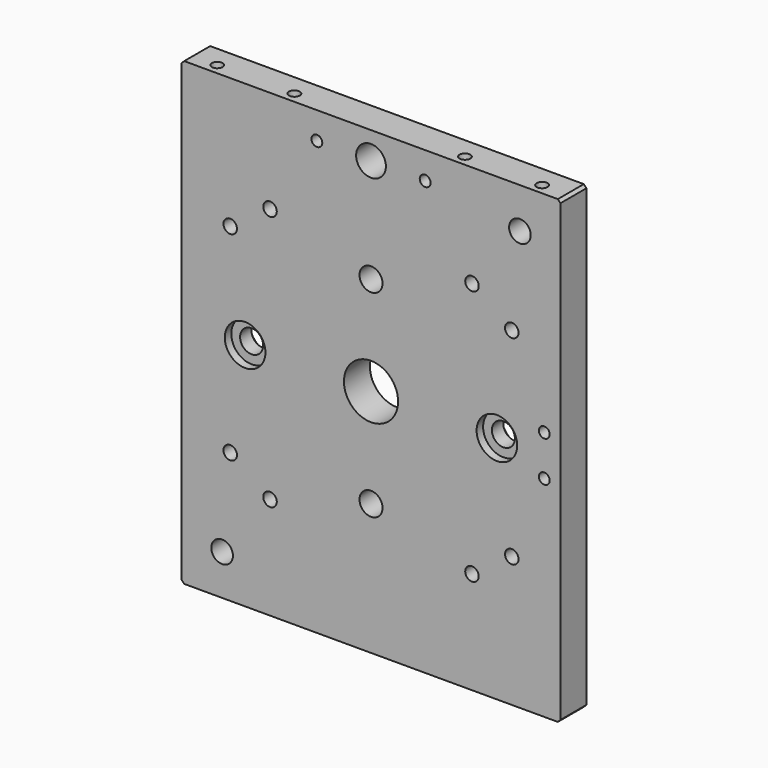
from build123d import *

# Parameters (mm, degrees)
F0_W           = 140
F0_H           = 170
F1_DEPTH       = 12
F2_R           = 10
F3_DEPTH       = 12
F5_D           = 8
F6_R           = 7.5
F7_DEPTH       = 3
F9_D           = 8.5
F9_DEPTH       = 12
F9_CSINK_D     = 16
F9_CSINK_ANGLE = 90
F9_TIP         = 2.5536576309
F11_D          = 8.5
F13_D          = 5
F15_D          = 4
F16_R          = 5.5
F17_DEPTH      = 12
F19_D          = 4
F19_DEPTH      = 13
F19_TIP        = 1.2017212381
F20_SIZE       = 1


with BuildPart() as f1:
    # F0 (on Front) → F1 (new body)
    with BuildSketch(Plane.XZ):
        Rectangle(F0_W, F0_H)
    extrude(amount=F1_DEPTH)

    # F2 (on face) → F3 (cut)
    with BuildSketch(Plane.XZ.offset(12)):
        Circle(F2_R)
    extrude(amount=-F3_DEPTH, mode=Mode.SUBTRACT)

    # F5 (through all)
    with Locations(Plane.XZ.offset(12)):
        with Locations((-55, -70), (55, 70)):
            Hole(F5_D / 2)

    # F6 (on face) → F7 (cut)
    with BuildSketch(Plane.XZ.offset(12)):
        with Locations((-46.5, 0)):
            Circle(F6_R)
        with Locations((46.5, 0)):
            Circle(F6_R)
    extrude(amount=-F7_DEPTH, mode=Mode.SUBTRACT)

    # F9
    with Locations(Plane(origin=(0, 0, 0), x_dir=(-1, 0, 0), z_dir=(0, 1, 0))):
        with Locations((46.5, 0), (-46.5, 0)):
            CounterSinkHole(F9_D / 2, F9_CSINK_D / 2, depth=F9_DEPTH, counter_sink_angle=F9_CSINK_ANGLE)
            with Locations((0, 0, -(F9_DEPTH + F9_TIP / 2))):  # 118° drill point
                Cone(0, F9_D / 2, F9_TIP, mode=Mode.SUBTRACT)

    # F11 (through all)
    with Locations(Plane.XZ.offset(12)):
        with Locations((0, -36.5), (0, 36.5)):
            Hole(F11_D / 2)

    # F13 (through all)
    with Locations(Plane.XZ.offset(12)):
        with Locations((52, -36.8), (37.3, -47.2), (-37.3, -47.2), (-52, -36.8), (-52, 36.8), (-37.3, 47.2), (37.3, 47.2), (52, 36.8)):
            Hole(F13_D / 2)

    # F15 (through all)
    with Locations(Plane.XZ.offset(12)):
        with Locations((-20, 75), (20, 75), (64, 7.5), (64, -7.5)):
            Hole(F15_D / 2)

    # F16 (on face) → F17 (cut)
    with BuildSketch(Plane.XZ.offset(12)):
        with Locations((0, 75)):
            Circle(F16_R)
    extrude(amount=-F17_DEPTH, mode=Mode.SUBTRACT)

    # F19
    with Locations(Plane.XY.offset(85)):
        with Locations((60, -8), (31.5, -8), (-31.5, -8), (-60, -8)):
            Hole(F19_D / 2, depth=F19_DEPTH)
            with Locations((0, 0, -(F19_DEPTH + F19_TIP / 2))):  # 118° drill point
                Cone(0, F19_D / 2, F19_TIP, mode=Mode.SUBTRACT)

    # F20
    f20_edges = [f1.edges().sort_by_distance(p)[0] for p in [
        (-70, -6, -85),
        (-70, -6, 85),
        (70, -6, 85),
        (70, -6, -85),
    ]]
    chamfer(f20_edges, length=F20_SIZE)


solid = f1.part
